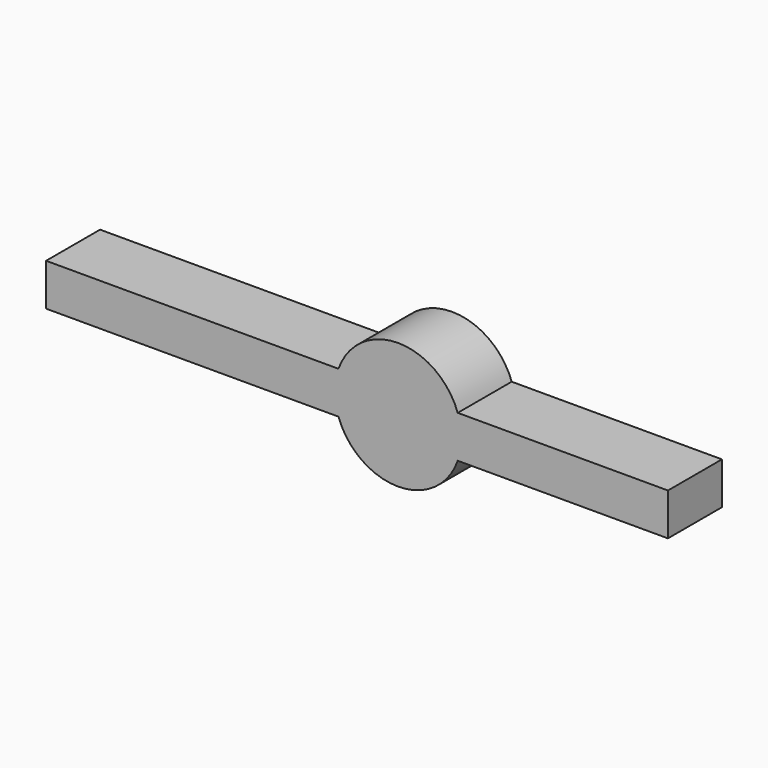
from build123d import *

# Parameters (mm, degrees)
PAD_DEPTH    = 0.25
SKETCH001_R  = 0.75
PAD001_DEPTH = 0.25
SKETCH002_R  = 0.75
PAD002_DEPTH = 0.25
SKETCH003_R  = 0.75
PAD003_DEPTH = 0.25
SKETCH004_R  = 0.75
PAD004_DEPTH = 0.4
SKETCH005_W  = 20
SKETCH005_H  = 20
POCKET_DEPTH = 10.171606


with BuildPart() as part:
    # Sketch (on DatumPlane) → Pad (new body, symmetric)
    with BuildSketch(Plane.XY.offset(0.5675)):
        Polygon((-7.195606, 5), (-7.195606, 0), (-7.195606, -5), (-6.795606, -5), (-6.395606, -5), (-6.395606, -0.4), (10, -0.4), (10, 0.4), (-6.395606, 0.4), (-6.395606, 5), (-6.795606, 5), align=None)
    extrude(amount=PAD_DEPTH, both=True)

    # Sketch001 (on DatumPlane) → Pad001 (join, symmetric)
    with BuildSketch(Plane.XY.offset(0.5675)):
        Circle(SKETCH001_R)
    extrude(amount=PAD001_DEPTH, both=True)

    # Sketch002 (on DatumPlane) → Pad002 (join, symmetric)
    with BuildSketch(Plane.XY.offset(0.5675)):
        with Locations((-6.795606, 5)):
            Circle(SKETCH002_R)
    extrude(amount=PAD002_DEPTH, both=True)

    # Sketch003 (on DatumPlane) → Pad003 (join, symmetric)
    with BuildSketch(Plane.XY.offset(0.5675)):
        with Locations((-6.795606, -5)):
            Circle(SKETCH003_R)
    extrude(amount=PAD003_DEPTH, both=True)

    # Sphere → Sphere (revolve, cut)
    with BuildSketch(Plane.XZ):
        with BuildLine():
            ThreePointArc((0, -0.635), (0.635, 0), (0, 0.635))
            Line((0, 0.635), (0, -0.635))
        make_face()
    revolve(axis=Axis((0, 0, 0), (0, 0, 1)), mode=Mode.SUBTRACT)

    # Sphere001 → Sphere001 (revolve, cut)
    with BuildSketch(Plane(origin=(-6.795606, 5, 1.135), x_dir=(1, 0, 0), z_dir=(0, -1, 0))):
        with BuildLine():
            ThreePointArc((0, -0.635), (0.635, 0), (0, 0.635))
            Line((0, 0.635), (0, -0.635))
        make_face()
    revolve(axis=Axis((-6.795606, 5, 1.135), (0, 0, 1)), mode=Mode.SUBTRACT)

    # Sphere002 → Sphere002 (revolve, cut)
    with BuildSketch(Plane(origin=(-6.795606, -5, 1.135), x_dir=(1, 0, 0), z_dir=(0, -1, 0))):
        with BuildLine():
            ThreePointArc((0, -0.635), (0.635, 0), (0, 0.635))
            Line((0, 0.635), (0, -0.635))
        make_face()
    revolve(axis=Axis((-6.795606, -5, 1.135), (0, 0, 1)), mode=Mode.SUBTRACT)

    # Sketch004 (on DatumPlane) → Pad004 (join, symmetric)
    with BuildSketch(Plane(origin=(0, 0, 0.5675), x_dir=(1, 0, 0), z_dir=(0, -1, 0))):
        with Locations((6.8, 0)):
            Circle(SKETCH004_R)
    extrude(amount=PAD004_DEPTH, both=True)

    # Sphere003 → Sphere003 (revolve, cut)
    with BuildSketch(Plane(origin=(6.8, 0.7175, 0.5675), x_dir=(1, 0, 0), z_dir=(0, -1, 0))):
        with BuildLine():
            ThreePointArc((0, -0.635), (0.635, 0), (0, 0.635))
            Line((0, 0.635), (0, -0.635))
        make_face()
    revolve(axis=Axis((6.8, 0.7175, 0.5675), (0, 0, 1)), mode=Mode.SUBTRACT)

    # Sketch005 (on DatumPlane) → Pocket (cut, through all)
    with BuildSketch(Plane.YZ.offset(2.625)):
        Rectangle(SKETCH005_W, SKETCH005_H)
    extrude(amount=-POCKET_DEPTH, mode=Mode.SUBTRACT)


solid = part.part
